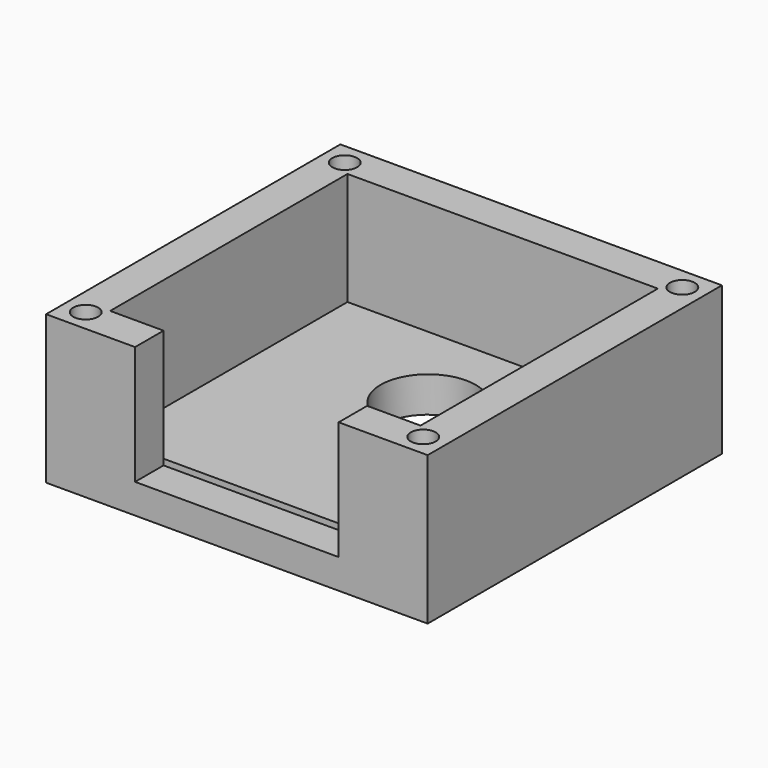
from build123d import *

# Parameters (mm, degrees)
F0_W     = 32.16
F0_H     = 31
F1_DEPTH = 12.5
F2_T     = -3
F3_W     = 17.16
F3_H     = 3
F4_DEPTH = 10
F6_D     = 8
F6_DEPTH = 5
F6_TIP   = 2.4034424761
F8_D     = 2.1
F8_DEPTH = 5
F8_TIP   = 0.63090365


with BuildPart() as f1:
    # F0 (on Top) → F1 (new body)
    with BuildSketch(Plane.XY):
        Rectangle(F0_W, F0_H)
    extrude(amount=F1_DEPTH)

    # F2
    f2_openings = [f1.faces().sort_by_distance(p)[0] for p in [
        (0, 0, 12.5),
    ]]
    offset(amount=F2_T, openings=f2_openings)

    # F3 (on face) → F4 (cut)
    with BuildSketch(Plane.XY.offset(12.5)):
        with Locations((0, -14)):
            Rectangle(F3_W, F3_H)
    extrude(amount=-F4_DEPTH, mode=Mode.SUBTRACT)

    # F6
    with Locations(Plane.XY.offset(3)):
        with Locations((0, 4.65)):
            Hole(F6_D / 2, depth=F6_DEPTH)
            with Locations((0, 0, -(F6_DEPTH + F6_TIP / 2))):  # 118° drill point
                Cone(0, F6_D / 2, F6_TIP, mode=Mode.SUBTRACT)

    # F8
    with Locations(Plane.XY.offset(12.5)):
        with Locations((-14.2255129855, -13.6455129855), (14.2255129855, -13.6455129855), (14.2255129855, 13.6455129855), (-14.2255129855, 13.6455129855)):
            Hole(F8_D / 2, depth=F8_DEPTH)
            with Locations((0, 0, -(F8_DEPTH + F8_TIP / 2))):  # 118° drill point
                Cone(0, F8_D / 2, F8_TIP, mode=Mode.SUBTRACT)


solid = f1.part
